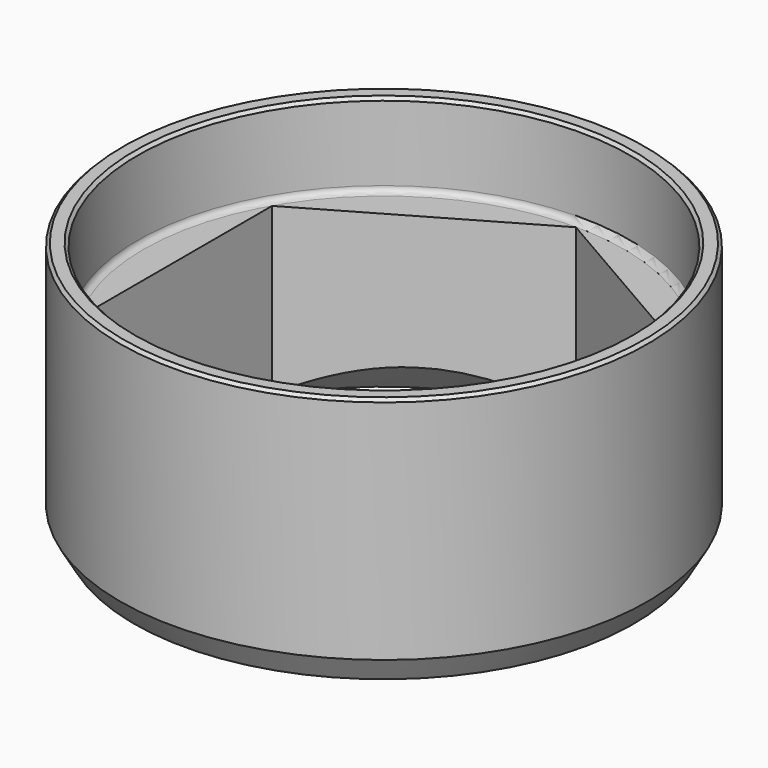
from build123d import *

# Parameters (mm, degrees)
F0_W      = 14.6431
F0_H      = 66.2686
F2_R      = 64.2874
F3_DEPTH  = 21.844
F5_DEPTH  = 66.2696
F6_R      = 1.5748
F7_SIZE   = 0.7874
F10_SIZE2 = 3.65151
F10_SIZE  = 6.3246


with BuildPart() as f1:
    # F0 (on Right) → F1 (revolve)
    with BuildSketch(Plane.YZ):
        with Locations((61.55055, -33.1343)):
            Rectangle(F0_W, F0_H)
    revolve(axis=Axis((0, 0, -33.1343), (0, 0, -1)))

    # F2 (on face) → F3 (cut)
    with BuildSketch(Plane.XY):
        Circle(F2_R)
    extrude(amount=-F3_DEPTH, mode=Mode.SUBTRACT)

    # F4 (on face) → F5 (cut, through all)
    with BuildSketch(Plane(origin=(0, 0, -66.2686), x_dir=(1, 0, 0), z_dir=(0, 0, -1))):
        Polygon((-54.229, 31.309128), (-54.229, -31.309128), (0, -62.618255), (54.229, -31.309128), (54.229, 31.309128), (0, 62.618255), align=None)
    extrude(amount=-F5_DEPTH, mode=Mode.SUBTRACT)

    # F6
    f6_edges = [f1.edges().sort_by_distance(p)[0] for p in [
        (-64.2874, 0, -21.844),
    ]]
    fillet(f6_edges, radius=F6_R)

    # F7
    f7_edges = [f1.edges().sort_by_distance(p)[0] for p in [
        (0, -68.8721, 0),
        (-64.2874, 0, 0),
    ]]
    chamfer(f7_edges, length=F7_SIZE)

    # F8 (on Right) → F9 (revolve, cut)
    with BuildSketch(Plane.YZ):
        Polygon((0, -2.3749), (-63.8937, -66.2686), (0, -66.2686), align=None)
    revolve(axis=Axis((0, 0, -34.32175), (0, 0, 1)), mode=Mode.SUBTRACT)

    # F10
    f10_edges = [f1.edges().sort_by_distance(p)[0] for p in [
        (0, -68.8721, -66.2686),
    ]]
    chamfer(f10_edges, length=F10_SIZE, length2=F10_SIZE2)


solid = f1.part
